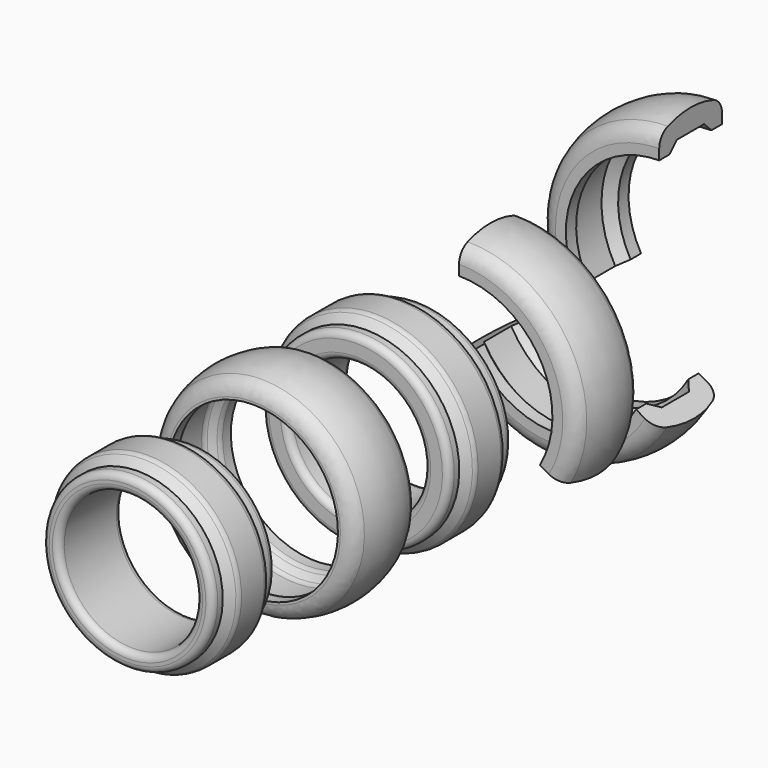
from build123d import *

# Parameters (mm, degrees)
F2_R           = 1
F4_R           = 1
F5_R           = 2.5
F6_R           = 1
F7_ANGLE       = 120
F8_ANGLE_START = 120
F8_ANGLE       = 120
F9_ANGLE_START = 240
F9_ANGLE       = 120
F10_R          = 2.5
F10_2_R        = 2.5
F10_3_R        = 2.5
F12_R          = 1


with BuildPart() as f1:
    # F0 (on Right) → F1 (revolve)
    with BuildSketch(Plane.YZ):
        Polygon((0, -3.2), (0, -7), (12, -7), (12, -3.2), (10, -3.2), (8.5857864376, -1.7857864376), (3.3846282969, -1.7857864376), (1.9704147345, -3.2), align=None)
    revolve(axis=Axis((0, 30.3733862936, -17.5), (0, 1, 0)))

    # F2
    f2_edges = [f1.edges().sort_by_distance(p)[0] for p in [
        (0, 3.384628, -33.214214),
        (0, 0, -31.8),
        (0, 8.585786, -33.214214),
        (0, 12, -31.8),
    ]]
    fillet(f2_edges, radius=F2_R)

    # F6
    f6_edges = [f1.edges().sort_by_distance(p)[0] for p in [
        (0, 12, -28),
        (0, 0, -28),
    ]]
    fillet(f6_edges, radius=F6_R)


with BuildPart() as f3:
    # F0 (on Right) → F3 (revolve)
    with BuildSketch(Plane.YZ):
        with BuildLine():
            Line((-19.6266137064, -2.5), (-19.6266137064, -4.5))
            Line((-19.6266137064, -4.5), (-17.6561989719, -4.5))
            Line((-17.6561989719, -4.5), (-16.2419854095, -3.0857864376))
            Line((-16.2419854095, -3.0857864376), (-11.0408272687, -3.0857864376))
            Line((-11.0408272687, -3.0857864376), (-9.6266137064, -4.5))
            Line((-9.6266137064, -4.5), (-7.6266137064, -4.5))
            Line((-7.6266137064, -4.5), (-7.6266137064, -2.5))
            ThreePointArc((-7.6266137064, -2.5), (-13.6266137064, -1), (-19.6266137064, -2.5))
        make_face()
    revolve(axis=Axis((0, 30.3733862936, -17.5), (0, 1, 0)))

    # F4
    f4_edges = [f3.edges().sort_by_distance(p)[0] for p in [
        (0, -17.656199, -30.5),
        (0, -16.241985, -31.914214),
        (0, -9.626614, -30.5),
        (0, -11.040827, -31.914214),
    ]]
    fillet(f4_edges, radius=F4_R)

    # F5
    f5_edges = [f3.edges().sort_by_distance(p)[0] for p in [
        (0, -19.626614, -32.5),
        (0, -7.626614, -32.5),
    ]]
    fillet(f5_edges, radius=F5_R)


with BuildPart() as f7:
    # F0 (on Right) → F7 (revolve)
    with BuildSketch(Plane.YZ):
        with BuildLine():
            Line((19.8051184416, -2.161e-07), (19.8051184416, -3.2000002161))
            Line((19.8051184416, -3.2000002161), (21.7755331761, -3.2000002161))
            Line((21.7755331761, -3.2000002161), (23.1897467384, -1.7857866537))
            Line((23.1897467384, -1.7857866537), (28.3909048792, -1.7857866537))
            Line((28.3909048792, -1.7857866537), (29.8051184416, -3.2000002161))
            Line((29.8051184416, -3.2000002161), (31.8051184416, -3.2000002161))
            Line((31.8051184416, -3.2000002161), (31.8051184416, -2.161e-07))
            ThreePointArc((31.8051184416, -2.161e-07), (25.8051184416, 1.4999997839), (19.8051184416, -2.161e-07))
        make_face()
    revolve(axis=Axis((0, 30.3733862936, -17.5), (0, 1, 0)), revolution_arc=F7_ANGLE)

    # F10
    f10_edges = [f7.edges().sort_by_distance(p)[0] for p in [
        (15.155444, 19.805118, -8.75),
        (15.155444, 31.805118, -8.75),
    ]]
    fillet(f10_edges, radius=F10_R)


with BuildPart() as f8:
    # F0 (on Right) → F8 (revolve)
    with BuildSketch(Plane.YZ, mode=Mode.PRIVATE) as f8_sk:
        with BuildLine():
            Line((38.206461817, -2.161e-07), (38.206461817, -3.2000002161))
            Line((38.206461817, -3.2000002161), (40.1768765515, -3.2000002161))
            Line((40.1768765515, -3.2000002161), (41.5910901139, -1.7857866537))
            Line((41.5910901139, -1.7857866537), (46.7922482547, -1.7857866537))
            Line((46.7922482547, -1.7857866537), (48.206461817, -3.2000002161))
            Line((48.206461817, -3.2000002161), (50.206461817, -3.2000002161))
            Line((50.206461817, -3.2000002161), (50.206461817, -2.161e-07))
            ThreePointArc((50.206461817, -2.161e-07), (44.206461817, 1.4999997839), (38.206461817, -2.161e-07))
        make_face()
    revolve(f8_sk.sketch.rotate(Axis((0, 30.3733862936, -17.5), (0, 1, 0)), F8_ANGLE_START), axis=Axis((0, 30.3733862936, -17.5), (0, 1, 0)), revolution_arc=F8_ANGLE)

    # F10#2
    f10_2_edges = [f8.edges().sort_by_distance(p)[0] for p in [
        (0, 50.206462, -35),
        (0, 38.206462, -35),
    ]]
    fillet(f10_2_edges, radius=F10_2_R)


with BuildPart() as f9:
    # F0 (on Right) → F9 (revolve)
    with BuildSketch(Plane.YZ, mode=Mode.PRIVATE) as f9_sk:
        with BuildLine():
            Line((58.1209659576, -2.161e-07), (58.1209659576, -3.2000002161))
            Line((58.1209659576, -3.2000002161), (60.0913806921, -3.2000002161))
            Line((60.0913806921, -3.2000002161), (61.5055942545, -1.7857866537))
            Line((61.5055942545, -1.7857866537), (66.7067523953, -1.7857866537))
            Line((66.7067523953, -1.7857866537), (68.1209659576, -3.2000002161))
            Line((68.1209659576, -3.2000002161), (70.1209659576, -3.2000002161))
            Line((70.1209659576, -3.2000002161), (70.1209659576, -2.161e-07))
            ThreePointArc((70.1209659576, -2.161e-07), (64.1209659576, 1.4999997839), (58.1209659576, -2.161e-07))
        make_face()
    revolve(f9_sk.sketch.rotate(Axis((0, 30.3733862936, -17.5), (0, 1, 0)), F9_ANGLE_START), axis=Axis((0, 30.3733862936, -17.5), (0, 1, 0)), revolution_arc=F9_ANGLE)

    # F10#3
    f10_3_edges = [f9.edges().sort_by_distance(p)[0] for p in [
        (-15.155444, 70.120966, -8.75),
        (-15.155444, 58.120966, -8.75),
    ]]
    fillet(f10_3_edges, radius=F10_3_R)


with BuildPart() as f11:
    # F0 (on Right) → F11 (revolve)
    with BuildSketch(Plane.YZ):
        Polygon((-43.6526276171, -4.5), (-43.6526276171, -7), (-31.6526276171, -7), (-31.6526276171, -4.5), (-33.6526276171, -4.5), (-35.0668411795, -3.0857864376), (-40.2679993203, -3.0857864376), (-41.6822128826, -4.5), align=None)
    revolve(axis=Axis((0, 6.3473723829, -17.5), (0, 1, 0)))

    # F12
    f12_edges = [f11.edges().sort_by_distance(p)[0] for p in [
        (0, -40.267999, -31.914214),
        (0, -35.066841, -31.914214),
        (0, -43.652628, -30.5),
        (0, -31.652628, -30.5),
        (0, -43.652628, -28),
        (0, -31.652628, -28),
    ]]
    fillet(f12_edges, radius=F12_R)


solid = Compound([f1.part, f3.part, f7.part, f8.part, f9.part, f11.part])
